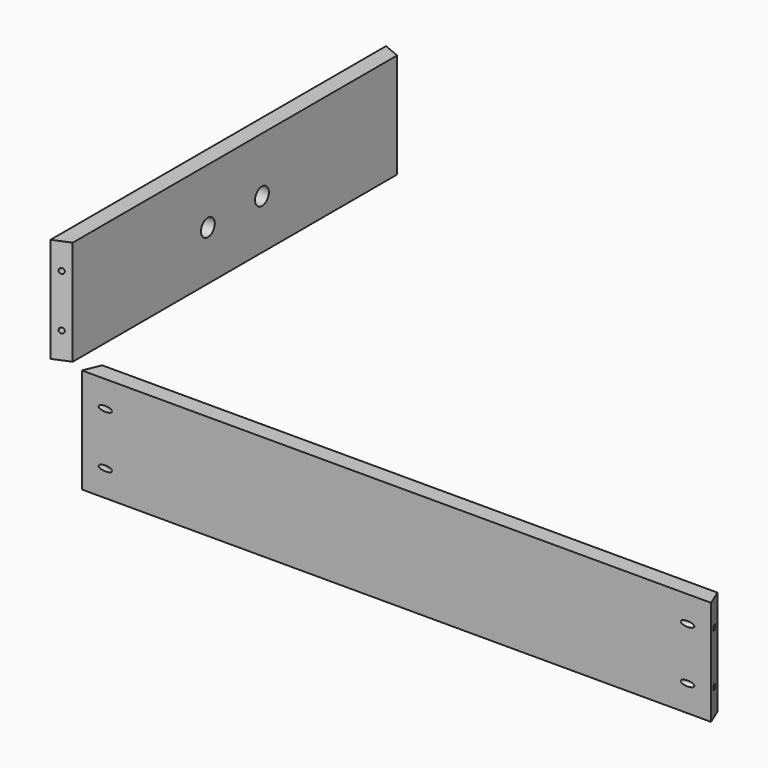
from build123d import *

# Parameters (mm, degrees)
F1_DEPTH     = 40
F2_DEPTH     = 40
F3_DEPTH     = 40
F4_DEPTH     = 40
F6_D         = 6.6
F8_D         = 6.6
F14_D        = 1.9939
F14_ON_F13_D = 1.9939
F14_ON_F10_D = 1.9939
F14_ON_F11_D = 1.9939


with BuildPart() as f1:
    # F0 (on Top) → F1 (new body)
    with BuildSketch(Plane.XY):
        Polygon((120, 280), (-120, 280), (-117.3697438789, 273.65), (117.3697438789, 273.65), align=None)
    extrude(amount=F1_DEPTH)


with BuildPart() as f2:
    # F0 (on Top) → F2 (new body)
    with BuildSketch(Plane.XY):
        Polygon((-180, 220), (-180, 60), (-173.65, 62.6302561211), (-173.65, 217.3697438789), align=None)
    extrude(amount=F2_DEPTH)

    # F6 (through all)
    with Locations(Plane.YZ.offset(-173.65)):
        with Locations((127.105, 18.925), (152.895, 18.925)):
            Hole(F6_D / 2)

    # F14 on F10 (through all)
    with Locations(Plane(origin=(-47.5735931288, 114.8528137424, 0), x_dir=(0.9238795325, 0.3826834324, 0), z_dir=(0.3826834324, -0.9238795325, 0))):
        with Locations((-139.9007146742, 30), (-139.9007146742, 10)):
            Hole(F14_ON_F10_D / 2)

    # F14 on F11 (through all)
    with Locations(Plane(origin=(51.4213562373, 124.1421356237, 0), x_dir=(-0.9238795325, 0.3826834324, 0), z_dir=(0.3826834324, 0.9238795325, 0))):
        with Locations((247.0520757364, 30), (247.0520757364, 10)):
            Hole(F14_ON_F11_D / 2)


with BuildPart() as f3:
    # F0 (on Top) → F3 (new body)
    with BuildSketch(Plane.XY):
        Polygon((173.65, 62.6302561211), (180, 60), (180, 220), (173.65, 217.3697438789), align=None)
    extrude(amount=F3_DEPTH)

    # F8 (through all)
    with Locations(Plane(origin=(173.65, 0, 0), x_dir=(0, -1, 0), z_dir=(-1, 0, 0))):
        with Locations((-127.105, 20), (-152.895, 20)):
            Hole(F8_D / 2)


with BuildPart() as f4:
    # F0 (on Top) → F4 (new body)
    with BuildSketch(Plane.XY):
        Polygon((-117.3697438789, 6.35), (-120, 0), (120, 0), (117.3697438789, 6.35), align=None)
    extrude(amount=F4_DEPTH)

    # F14 (through all)
    with Locations(Plane(origin=(102.4264068712, 42.4264068712, 0), x_dir=(-0.3826834324, 0.9238795325, 0), z_dir=(0.9238795325, 0.3826834324, 0))):
        with Locations((-42.4854166479, 30), (-42.4854166479, 10)):
            Hole(F14_D / 2)

    # F14 on F13 (through all)
    with Locations(Plane(origin=(-102.4264068712, 42.4264068712, 0), x_dir=(-0.3826834324, -0.9238795325, 0), z_dir=(-0.9238795325, 0.3826834324, 0))):
        with Locations((42.4854166479, 30), (42.4854166479, 10)):
            Hole(F14_ON_F13_D / 2)


solid = Compound([f2.part, f4.part])
